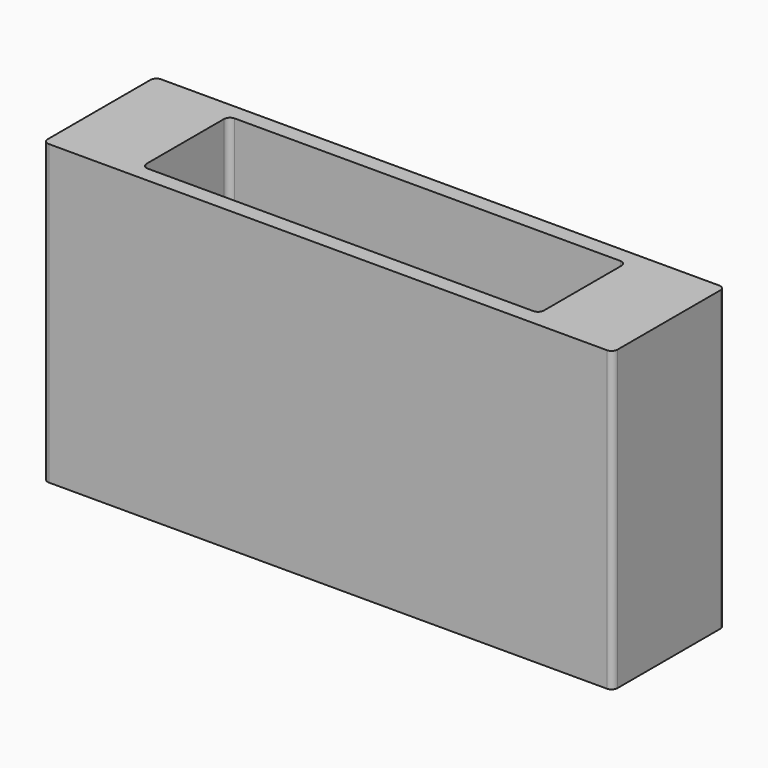
from build123d import *

# Parameters (mm, degrees)
F0_W     = 97.5
F0_H     = 24
F0_W_2   = 68
F0_H_2   = 18.6
F1_DEPTH = 51
F2_DEPTH = 2
F3_W     = 16
F3_H     = 12
F4_DEPTH = 25
F5_R     = 1


with BuildPart() as f1:
    # F0 (on Top) → F1 (new body)
    with BuildSketch(Plane.XY):
        with Locations((7.836403, -3.65245)):
            Rectangle(F0_W, F0_H)
        with Locations((7.836403, -3.65245)):
            Rectangle(F0_W_2, F0_H_2, mode=Mode.SUBTRACT)
    extrude(amount=F1_DEPTH)

    # F0 (on Top) → F2 (join)
    with BuildSketch(Plane.XY):
        with Locations((7.836403, -3.65245)):
            Rectangle(F0_W_2, F0_H_2)
    extrude(amount=F2_DEPTH)

    # F3 (on face) → F4 (cut)
    with BuildSketch(Plane(origin=(-40.913597, 0, 0), x_dir=(0, -1, 0), z_dir=(-1, 0, 0))):
        with Locations((3.65245, 20)):
            Rectangle(F3_W, F3_H)
    extrude(amount=-F4_DEPTH, mode=Mode.SUBTRACT)

    # F5
    f5_edges = [f1.edges().sort_by_distance(p)[0] for p in [
        (-40.913597, -15.65245, 25.5),
        (-40.913597, 8.34755, 25.5),
        (56.586403, -15.65245, 25.5),
        (56.586403, 8.34755, 25.5),
        (41.836403, 5.64755, 26.5),
        (41.836403, -12.95245, 26.5),
        (-26.163597, 5.64755, 26.5),
        (-26.163597, -12.95245, 26.5),
    ]]
    fillet(f5_edges, radius=F5_R)


solid = f1.part
